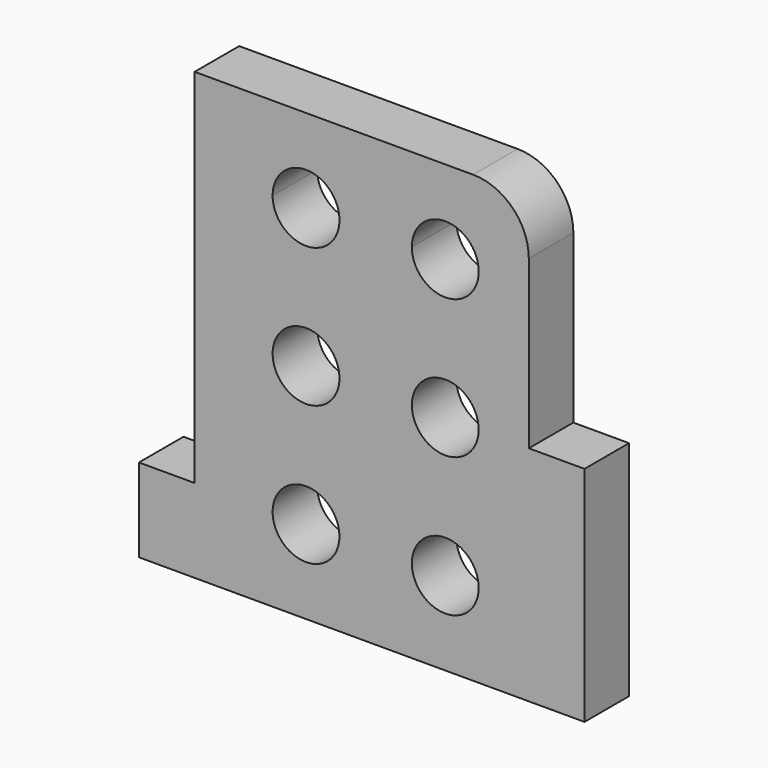
from build123d import *

# Parameters (mm, degrees)
F0_R     = 6
F1_DEPTH = 10


with BuildPart() as f1:
    # F0 (on Front) → F1 (new body)
    with BuildSketch(Plane.XZ):
        with BuildLine():
            Line((10, 15), (0, 15))
            Line((0, 15), (0, 0))
            Line((0, 0), (80, 0))
            Line((80, 0), (80, 40))
            Line((80, 40), (70, 40))
            Line((70, 40), (70, 70))
            ThreePointArc((70, 70), (67.0710678119, 77.0710678119), (60, 80))
            Line((60, 80), (10, 80))
            Line((10, 80), (10, 15))
        make_face()
        with Locations((30, 15)):
            Circle(F0_R, mode=Mode.SUBTRACT)
        with Locations((55, 15)):
            Circle(F0_R, mode=Mode.SUBTRACT)
        with Locations((30, 40.0086533673)):
            Circle(F0_R, mode=Mode.SUBTRACT)
        with Locations((30, 64.9759587646)):
            Circle(F0_R, mode=Mode.SUBTRACT)
        with Locations((30, 65.0240412354)):
            Circle(F0_R, mode=Mode.SUBTRACT)
        with Locations((55, 40.0058473252)):
            Circle(F0_R, mode=Mode.SUBTRACT)
        with Locations((55, 64.9759587646)):
            Circle(F0_R, mode=Mode.SUBTRACT)
        with Locations((55, 65.0240412354)):
            Circle(F0_R, mode=Mode.SUBTRACT)
    extrude(amount=F1_DEPTH)


solid = f1.part
